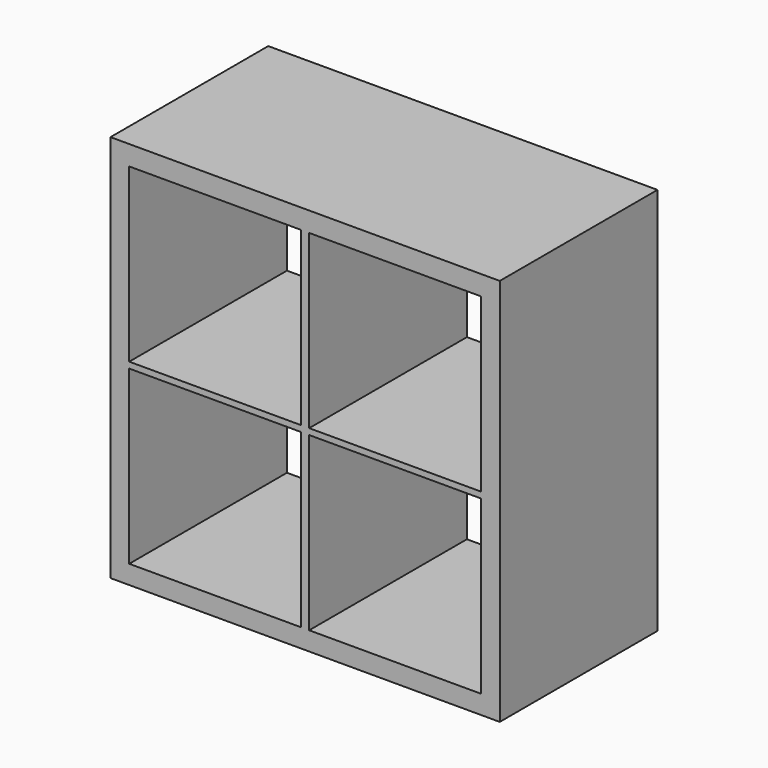
from build123d import *

# Parameters (mm, degrees)
F0_W     = 770
F0_H     = 390
F1_DEPTH = 37
F2_W     = 37
F2_H     = 390
F2_W_2   = 16
F3_DEPTH = 692
F4_W     = 770
F4_H     = 390
F5_DEPTH = 39
F6_W     = 390
F6_H     = 12
F7_DEPTH = 704


with BuildPart() as f1:
    # F0 (on Top) → F1 (new body)
    with BuildSketch(Plane.XY):
        with Locations((385, 195)):
            Rectangle(F0_W, F0_H)
    extrude(amount=F1_DEPTH)

    # F2 (on face) → F3 (join)
    with BuildSketch(Plane.XY.offset(37)):
        with Locations((18.5, 195)):
            Rectangle(F2_W, F2_H)
        with Locations((751.5, 195)):
            Rectangle(F2_W, F2_H)
        with Locations((385, 195)):
            Rectangle(F2_W_2, F2_H)
    extrude(amount=F3_DEPTH)

    # F4 (on face) → F5 (join)
    with BuildSketch(Plane.XY.offset(729)):
        with Locations((385, 195)):
            Rectangle(F4_W, F4_H)
    extrude(amount=F5_DEPTH)

    # F6 (on face) → F7 (join)
    with BuildSketch(Plane(origin=(733, 0, 0), x_dir=(0, -1, 0), z_dir=(-1, 0, 0))):
        with Locations((-195, 383)):
            Rectangle(F6_W, F6_H)
    extrude(amount=F7_DEPTH)


solid = f1.part
